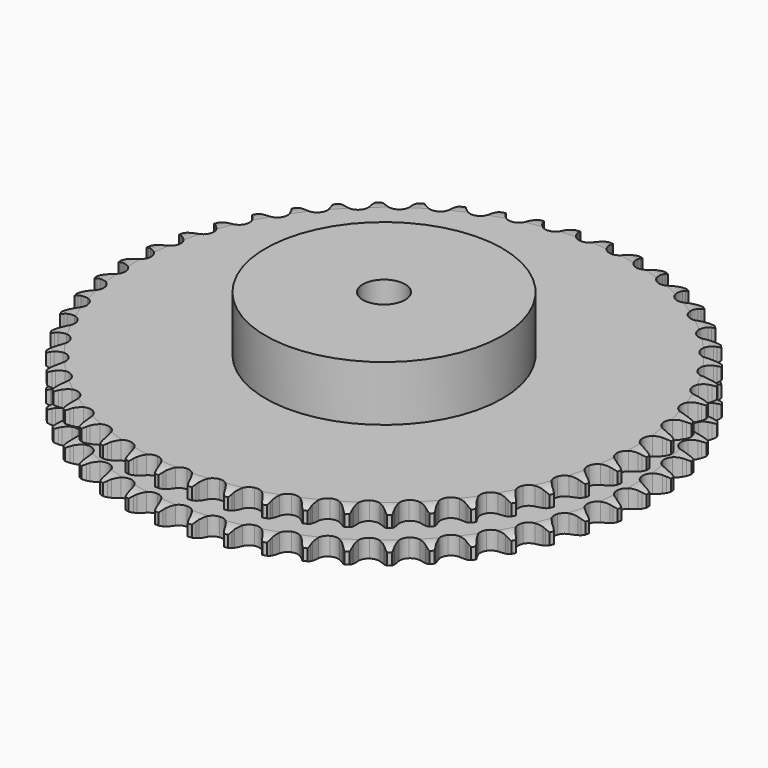
from build123d import *

# Parameters (mm, degrees)
PAD_DEPTH         = 30.3
SKETCH001_R       = 70
PAD001_DEPTH      = 63
SKETCH002_R       = 12.5
POCKET_DEPTH      = 0.001
POCKET_DEPTH_BACK = 63.001


with BuildPart() as part:
    # Sprocket → Pad (new body)
    with BuildSketch(Plane.XY):
        with BuildLine():
            ThreePointArc((-9.906473, 157.45888), (-8.588511, 155.781936), (-7.66687, 153.858464))
            Line((-7.66687, 153.858464), (-7.079791, 152.183904))
            ThreePointArc((-7.079791, 152.183904), (-6.153474, 150.057582), (-4.925101, 148.090246))
            ThreePointArc((-4.925101, 148.090246), (-2.761333, 146.251989), (0, 145.5916))
            ThreePointArc((0, 145.5916), (2.761333, 146.251989), (4.925101, 148.090246))
            ThreePointArc((4.925101, 148.090246), (6.153474, 150.057582), (7.079791, 152.183904))
            Line((7.079791, 152.183904), (7.66687, 153.858464))
            ThreePointArc((7.66687, 153.858464), (8.588511, 155.781936), (9.906473, 157.45888))
            ThreePointArc((9.906473, 157.45888), (11.003866, 155.629975), (11.677165, 153.606158))
            Line((11.677165, 153.606158), (12.049736, 151.871222))
            ThreePointArc((12.049736, 151.871222), (12.70225, 149.645568), (13.674365, 147.539789))
            ThreePointArc((13.674365, 147.539789), (15.590675, 145.444835), (18.247466, 144.443567))
            ThreePointArc((18.247466, 144.443567), (21.069794, 144.752662), (23.446894, 146.305231))
            Line((23.446894, 146.305231), (26.097665, 150.096556))
            ThreePointArc((26.097665, 150.096556), (26.471464, 150.901604), (26.889993, 151.684331))
            ThreePointArc((26.889993, 151.684331), (28.045441, 153.477123), (29.563188, 154.975659))
            ThreePointArc((29.563188, 154.975659), (30.422705, 153.023636), (30.837043, 150.931391))
            Line((30.837043, 150.931391), (30.989232, 149.16344))
            ThreePointArc((30.989232, 149.16344), (31.357652, 146.873554), (32.058177, 144.662541))
            ThreePointArc((32.058177, 144.662541), (33.69681, 142.34393), (36.207159, 141.017572))
            ThreePointArc((36.207159, 141.017572), (39.045972, 140.970498), (41.598916, 142.212896))
            Line((41.598916, 142.212896), (44.703964, 145.642095))
            ThreePointArc((44.703964, 145.642095), (45.175714, 146.393946), (45.689045, 147.118045))
            ThreePointArc((45.689045, 147.118045), (47.060079, 148.751884), (48.753674, 150.04838))
            ThreePointArc((48.753674, 150.04838), (49.36176, 148.004023), (49.510603, 145.876345))
            Line((49.510603, 145.876345), (49.440009, 144.103261))
            ThreePointArc((49.440009, 144.103261), (49.518525, 141.785256), (49.936413, 139.503879))
            ThreePointArc((49.936413, 139.503879), (51.271525, 136.998175), (53.595843, 135.367646))
            ThreePointArc((53.595843, 135.367646), (56.406371, 134.965146), (59.094898, 135.877778))
            Line((59.094898, 135.877778), (62.605255, 138.890771))
            ThreePointArc((62.605255, 138.890771), (63.167517, 139.577567), (63.767554, 140.231619))
            ThreePointArc((63.767554, 140.231619), (65.332551, 141.680739), (67.175285, 142.754748))
            ThreePointArc((67.175285, 142.754748), (67.522351, 140.650298), (67.403351, 138.520743))
            Line((67.403351, 138.520743), (67.111087, 136.770487))
            ThreePointArc((67.111087, 136.770487), (66.898461, 134.46092), (67.027121, 132.145157))
            ThreePointArc((67.027121, 132.145157), (68.037658, 129.491878), (70.139288, 127.582891))
            ThreePointArc((70.139288, 127.582891), (72.877208, 126.831313), (75.658919, 127.399786))
            Line((75.658919, 127.399786), (79.519223, 129.949057))
            ThreePointArc((79.519223, 129.949057), (80.16313, 130.559967), (80.84041, 131.133657))
            ThreePointArc((80.84041, 131.133657), (82.574689, 132.375205), (84.537502, 133.209788))
            ThreePointArc((84.537502, 133.209788), (84.618074, 131.078433), (84.233108, 128.980585))
            Line((84.233108, 128.980585), (83.723783, 127.280762))
            ThreePointArc((83.723783, 127.280762), (83.223369, 125.016055), (83.060772, 122.702427))
            ThreePointArc((83.060772, 122.702427), (83.730797, 119.943416), (85.576595, 117.786078))
            ThreePointArc((85.576595, 117.786078), (88.198728, 116.697274), (91.029753, 116.912624))
            Line((91.029753, 116.912624), (95.179126, 118.957968))
            ThreePointArc((95.179126, 118.957968), (95.894523, 119.483359), (96.638364, 119.967639))
            ThreePointArc((96.638364, 119.967639), (98.514576, 120.982034), (100.566512, 121.564031))
            ThreePointArc((100.566512, 121.564031), (100.379319, 119.439384), (99.734459, 117.406327))
            Line((99.734459, 117.406327), (99.016106, 115.783742))
            ThreePointArc((99.016106, 115.783742), (98.235794, 113.599612), (97.784505, 111.324607))
            ThreePointArc((97.784505, 111.324607), (98.103451, 108.503375), (99.664308, 106.131709))
            ThreePointArc((99.664308, 106.131709), (102.129301, 104.722849), (104.964993, 104.58168))
            Line((104.964993, 104.58168), (109.337997, 106.090842))
            ThreePointArc((109.337997, 106.090842), (110.113601, 106.522426), (110.912274, 106.90966))
            ThreePointArc((110.912274, 106.90966), (112.900828, 107.680904), (115.009528, 108.001136))
            ThreePointArc((115.009528, 108.001136), (114.557522, 105.916704), (113.662938, 103.980501))
            Line((113.662938, 103.980501), (112.746885, 102.460744))
            ThreePointArc((112.746885, 102.460744), (111.698982, 100.391636), (110.966118, 98.191131))
            ThreePointArc((110.966118, 98.191131), (110.928954, 95.35217), (112.180256, 92.803578))
            ThreePointArc((112.180256, 92.803578), (114.449235, 91.096883), (117.244873, 90.60142))
            Line((117.244873, 90.60142), (121.772542, 91.550599))
            ThreePointArc((121.772542, 91.550599), (122.596123, 91.881571), (123.437031, 92.165651))
            ThreePointArc((123.437031, 92.165651), (125.506567, 92.681582), (127.638776, 92.734999))
            ThreePointArc((127.638776, 92.734999), (126.929085, 90.723655), (125.798884, 88.91484))
            Line((125.798884, 88.91484), (124.699579, 87.521879))
            ThreePointArc((124.699579, 87.521879), (123.400611, 85.600423), (122.397729, 83.509122))
            ThreePointArc((122.397729, 83.509122), (122.005042, 80.697206), (122.927053, 78.01188))
            ThreePointArc((122.927053, 78.01188), (124.964235, 76.034264), (127.675731, 75.192322))
            Line((127.675731, 75.192322), (132.286662, 75.566549))
            ThreePointArc((132.286662, 75.566549), (133.14523, 75.791689), (134.015112, 75.968136))
            ThreePointArc((134.015112, 75.968136), (136.132993, 76.220616), (138.255083, 76.006375))
            ThreePointArc((138.255083, 76.006375), (137.2989, 74.099839), (135.950906, 72.446939))
            Line((135.950906, 72.446939), (134.685685, 71.202741))
            ThreePointArc((134.685685, 71.202741), (133.156138, 69.459241), (131.899055, 67.510124))
            ThreePointArc((131.899055, 67.510124), (131.157038, 64.769598), (131.735218, 61.989888))
            ThreePointArc((131.735218, 61.989888), (133.508475, 59.772539), (136.093067, 58.597396))
            Line((136.093067, 58.597396), (140.714542, 58.390769))
            ThreePointArc((140.714542, 58.390769), (141.594558, 58.506527), (142.479695, 58.572557))
            ThreePointArc((142.479695, 58.572557), (144.61252, 58.557606), (146.691025, 58.079085))
            ThreePointArc((146.691025, 58.079085), (145.50343, 56.307425), (143.958902, 54.836507))
            Line((143.958902, 54.836507), (142.547718, 53.760694))
            ThreePointArc((142.547718, 53.760694), (140.811713, 52.222644), (139.320254, 50.446452))
            ThreePointArc((139.320254, 50.446452), (138.240608, 47.820534), (138.46584, 44.990279))
            ThreePointArc((138.46584, 44.990279), (139.947206, 42.568166), (142.364133, 41.078354))
            Line((142.364133, 41.078354), (146.92327, 40.294131))
            ThreePointArc((146.92327, 40.294131), (147.810855, 40.298682), (148.697288, 40.253254))
            ThreePointArc((148.697288, 40.253254), (150.811421, 39.971107), (152.813562, 39.235854))
            ThreePointArc((152.813562, 39.235854), (151.413283, 37.627008), (149.69658, 36.36127))
            Line((149.69658, 36.36127), (148.161689, 35.470808))
            ThreePointArc((148.161689, 35.470808), (146.246603, 34.162466), (144.544289, 32.587209))
            ThreePointArc((144.544289, 32.587209), (143.144042, 30.117313), (143.012772, 27.281145))
            ThreePointArc((143.012772, 27.281145), (144.178887, 24.692467), (146.390032, 22.911481))
            Line((146.390032, 22.911481), (150.81493, 21.562032))
            ThreePointArc((150.81493, 21.562032), (151.696086, 21.455302), (152.569836, 21.299133))
            ThreePointArc((152.569836, 21.299133), (154.631936, 20.75424), (156.526138, 19.77385))
            ThreePointArc((156.526138, 19.77385), (154.935259, 18.353192), (153.073453, 17.312594))
            Line((153.073453, 17.312594), (151.43906, 16.621527))
            ThreePointArc((151.43906, 16.621527), (149.375098, 15.563525), (147.488774, 14.214046))
            ThreePointArc((147.488774, 14.214046), (145.790009, 11.939123), (145.304308, 9.141772))
            ThreePointArc((145.304308, 9.141772), (146.13678, 6.427354), (148.107273, 4.383281))
            Line((148.107273, 4.383281), (152.328148, 2.489886))
            ThreePointArc((152.328148, 2.489886), (153.188979, 2.27356), (154.036266, 2.009112))
            ThreePointArc((154.036266, 2.009112), (156.013813, 1.210066), (157.770203, 0))
            ThreePointArc((157.770203, 0), (156.013813, -1.210066), (154.036266, -2.009112))
            Line((154.036266, -2.009112), (152.328148, -2.489886))
            ThreePointArc((152.328148, -2.489886), (150.147857, -3.280862), (148.107273, -4.383281))
            ThreePointArc((148.107273, -4.383281), (146.13678, -6.427354), (145.304308, -9.141772))
            ThreePointArc((145.304308, -9.141772), (145.790009, -11.939123), (147.488774, -14.214046))
            Line((147.488774, -14.214046), (151.43906, -16.621527))
            ThreePointArc((151.43906, -16.621527), (152.265991, -16.944038), (153.073453, -17.312594))
            ThreePointArc((153.073453, -17.312594), (154.935259, -18.353192), (156.526138, -19.77385))
            ThreePointArc((156.526138, -19.77385), (154.631936, -20.75424), (152.569836, -21.299133))
            Line((152.569836, -21.299133), (150.81493, -21.562032))
            ThreePointArc((150.81493, -21.562032), (148.552696, -22.073508), (146.390032, -22.911481))
            ThreePointArc((146.390032, -22.911481), (144.178887, -24.692467), (143.012772, -27.281145))
            ThreePointArc((143.012772, -27.281145), (143.144042, -30.117313), (144.544289, -32.587209))
            Line((144.544289, -32.587209), (148.161689, -35.470808))
            ThreePointArc((148.161689, -35.470808), (148.941677, -35.894418), (149.69658, -36.36127))
            ThreePointArc((149.69658, -36.36127), (151.413283, -37.627008), (152.813562, -39.235854))
            ThreePointArc((152.813562, -39.235854), (150.811421, -39.971107), (148.697288, -40.253254))
            Line((148.697288, -40.253254), (146.92327, -40.294131))
            ThreePointArc((146.92327, -40.294131), (144.614769, -40.518041), (142.364133, -41.078354))
            ThreePointArc((142.364133, -41.078354), (139.947206, -42.568166), (138.46584, -44.990279))
            ThreePointArc((138.46584, -44.990279), (138.240608, -47.820534), (139.320254, -50.446452))
            Line((139.320254, -50.446452), (142.547718, -53.760694))
            ThreePointArc((142.547718, -53.760694), (143.268464, -54.278722), (143.958902, -54.836507))
            ThreePointArc((143.958902, -54.836507), (145.50343, -56.307425), (146.691025, -58.079085))
            ThreePointArc((146.691025, -58.079085), (144.61252, -58.557606), (142.479695, -58.572557))
            Line((142.479695, -58.572557), (140.714542, -58.390769))
            ThreePointArc((140.714542, -58.390769), (138.396181, -58.323581), (136.093067, -58.597396))
            ThreePointArc((136.093067, -58.597396), (133.508475, -59.772539), (131.735218, -61.989888))
            ThreePointArc((131.735218, -61.989888), (131.157038, -64.769598), (131.899055, -67.510124))
            Line((131.899055, -67.510124), (134.685685, -71.202741))
            ThreePointArc((134.685685, -71.202741), (135.335822, -71.807018), (135.950906, -72.446939))
            ThreePointArc((135.950906, -72.446939), (137.2989, -74.099839), (138.255083, -76.006375))
            ThreePointArc((138.255083, -76.006375), (136.132993, -76.220616), (134.015112, -75.968136))
            Line((134.015112, -75.968136), (132.286662, -75.566549))
            ThreePointArc((132.286662, -75.566549), (129.995003, -75.209323), (127.675731, -75.192322))
            ThreePointArc((127.675731, -75.192322), (124.964235, -76.034264), (122.927053, -78.01188))
            ThreePointArc((122.927053, -78.01188), (122.005042, -80.697206), (122.397729, -83.509122))
            Line((122.397729, -83.509122), (124.699579, -87.521879))
            ThreePointArc((124.699579, -87.521879), (125.268853, -88.202874), (125.798884, -88.91484))
            ThreePointArc((125.798884, -88.91484), (126.929085, -90.723655), (127.638776, -92.734999))
            ThreePointArc((127.638776, -92.734999), (125.506567, -92.681582), (123.437031, -92.165651))
            Line((123.437031, -92.165651), (121.772542, -91.550599))
            ThreePointArc((121.772542, -91.550599), (119.543726, -90.908969), (117.244873, -90.60142))
            ThreePointArc((117.244873, -90.60142), (114.449235, -91.096883), (112.180256, -92.803578))
            ThreePointArc((112.180256, -92.803578), (110.928954, -95.35217), (110.966118, -98.191131))
            Line((110.966118, -98.191131), (112.746885, -102.460744))
            ThreePointArc((112.746885, -102.460744), (113.226319, -103.207719), (113.662938, -103.980501))
            ThreePointArc((113.662938, -103.980501), (114.557522, -105.916704), (115.009528, -108.001136))
            ThreePointArc((115.009528, -108.001136), (112.900828, -107.680904), (110.912274, -106.90966))
            Line((110.912274, -106.90966), (109.337997, -106.090842))
            ThreePointArc((109.337997, -106.090842), (107.207173, -105.174927), (104.964993, -104.58168))
            ThreePointArc((104.964993, -104.58168), (102.129301, -104.722849), (99.664308, -106.131709))
            ThreePointArc((99.664308, -106.131709), (98.103451, -108.503375), (97.784505, -111.324607))
            Line((97.784505, -111.324607), (99.016106, -115.783742))
            ThreePointArc((99.016106, -115.783742), (99.398138, -116.584916), (99.734459, -117.406327))
            ThreePointArc((99.734459, -117.406327), (100.379319, -119.439384), (100.566512, -121.564031))
            ThreePointArc((100.566512, -121.564031), (98.514576, -120.982034), (96.638364, -119.967639))
            Line((96.638364, -119.967639), (95.179126, -118.957968))
            ThreePointArc((95.179126, -118.957968), (93.179899, -117.782213), (91.029753, -116.912624))
            ThreePointArc((91.029753, -116.912624), (88.198728, -116.697274), (85.576595, -117.786078))
            ThreePointArc((85.576595, -117.786078), (83.730797, -119.943416), (83.060772, -122.702427))
            Line((83.060772, -122.702427), (83.723783, -127.280762))
            ThreePointArc((83.723783, -127.280762), (84.00239, -128.123499), (84.233108, -128.980585))
            ThreePointArc((84.233108, -128.980585), (84.618074, -131.078433), (84.537502, -133.209788))
            ThreePointArc((84.537502, -133.209788), (82.574689, -132.375205), (80.84041, -131.133657))
            Line((80.84041, -131.133657), (79.519223, -129.949057))
            ThreePointArc((79.519223, -129.949057), (77.683122, -128.532003), (75.658919, -127.399786))
            ThreePointArc((75.658919, -127.399786), (72.877208, -126.831313), (70.139288, -127.582891))
            ThreePointArc((70.139288, -127.582891), (68.037658, -129.491878), (67.027121, -132.145157))
            Line((67.027121, -132.145157), (67.111087, -136.770487))
            ThreePointArc((67.111087, -136.770487), (67.281873, -137.641498), (67.403351, -138.520743))
            ThreePointArc((67.403351, -138.520743), (67.522351, -140.650298), (67.175285, -142.754748))
            ThreePointArc((67.175285, -142.754748), (65.332551, -141.680739), (63.767554, -140.231619))
            Line((63.767554, -140.231619), (62.605255, -138.890771))
            ThreePointArc((62.605255, -138.890771), (60.961236, -137.254766), (59.094898, -135.877778))
            ThreePointArc((59.094898, -135.877778), (56.406371, -134.965146), (53.595843, -135.367646))
            ThreePointArc((53.595843, -135.367646), (51.271525, -136.998175), (49.936413, -139.503879))
            Line((49.936413, -139.503879), (49.440009, -144.103261))
            ThreePointArc((49.440009, -144.103261), (49.500282, -144.988809), (49.510603, -145.876345))
            ThreePointArc((49.510603, -145.876345), (49.36176, -148.004023), (48.753674, -150.04838))
            ThreePointArc((48.753674, -150.04838), (47.060079, -148.751884), (45.689045, -147.118045))
            Line((45.689045, -147.118045), (44.703964, -145.642095))
            ThreePointArc((44.703964, -145.642095), (43.277954, -143.81294), (41.598916, -142.212896))
            ThreePointArc((41.598916, -142.212896), (39.045972, -140.970498), (36.207159, -141.017572))
            ThreePointArc((36.207159, -141.017572), (33.69681, -142.34393), (32.058177, -144.662541))
            Line((32.058177, -144.662541), (30.989232, -149.16344))
            ThreePointArc((30.989232, -149.16344), (30.938041, -150.049559), (30.837043, -150.931391))
            ThreePointArc((30.837043, -150.931391), (30.422705, -153.023636), (29.563188, -154.975659))
            ThreePointArc((29.563188, -154.975659), (28.045441, -153.477123), (26.889993, -151.684331))
            Line((26.889993, -151.684331), (26.097665, -150.096556))
            ThreePointArc((26.097665, -150.096556), (24.912154, -148.103098), (23.446894, -146.305231))
            ThreePointArc((23.446894, -146.305231), (21.069794, -144.752662), (18.247466, -144.443567))
            ThreePointArc((18.247466, -144.443567), (15.590675, -145.444835), (13.674365, -147.539789))
            Line((13.674365, -147.539789), (12.049736, -151.871222))
            ThreePointArc((12.049736, -151.871222), (11.887889, -152.743938), (11.677165, -153.606158))
            ThreePointArc((11.677165, -153.606158), (11.003866, -155.629975), (9.906473, -157.45888))
            ThreePointArc((9.906473, -157.45888), (8.588511, -155.781936), (7.66687, -153.858464))
            Line((7.66687, -153.858464), (7.079791, -152.183904))
            ThreePointArc((7.079791, -152.183904), (6.153474, -150.057582), (4.925101, -148.090246))
            ThreePointArc((4.925101, -148.090246), (2.761333, -146.251989), (0, -145.5916))
            ThreePointArc((0, -145.5916), (-2.761333, -146.251989), (-4.925101, -148.090246))
            Line((-4.925101, -148.090246), (-7.079791, -152.183904))
            ThreePointArc((-7.079791, -152.183904), (-7.349742, -153.029454), (-7.66687, -153.858464))
            ThreePointArc((-7.66687, -153.858464), (-8.588511, -155.781936), (-9.906473, -157.45888))
            ThreePointArc((-9.906473, -157.45888), (-11.003866, -155.629975), (-11.677165, -153.606158))
            Line((-11.677165, -153.606158), (-12.049736, -151.871222))
            ThreePointArc((-12.049736, -151.871222), (-12.70225, -149.645568), (-13.674365, -147.539789))
            ThreePointArc((-13.674365, -147.539789), (-15.590675, -145.444835), (-18.247466, -144.443567))
            ThreePointArc((-18.247466, -144.443567), (-21.069794, -144.752662), (-23.446894, -146.305231))
            Line((-23.446894, -146.305231), (-26.097665, -150.096556))
            ThreePointArc((-26.097665, -150.096556), (-26.471464, -150.901604), (-26.889993, -151.684331))
            ThreePointArc((-26.889993, -151.684331), (-28.045441, -153.477123), (-29.563188, -154.975659))
            ThreePointArc((-29.563188, -154.975659), (-30.422705, -153.023636), (-30.837043, -150.931391))
            Line((-30.837043, -150.931391), (-30.989232, -149.16344))
            ThreePointArc((-30.989232, -149.16344), (-31.357652, -146.873554), (-32.058177, -144.662541))
            ThreePointArc((-32.058177, -144.662541), (-33.69681, -142.34393), (-36.207159, -141.017572))
            ThreePointArc((-36.207159, -141.017572), (-39.045972, -140.970498), (-41.598916, -142.212896))
            Line((-41.598916, -142.212896), (-44.703964, -145.642095))
            ThreePointArc((-44.703964, -145.642095), (-45.175714, -146.393946), (-45.689045, -147.118045))
            ThreePointArc((-45.689045, -147.118045), (-47.060079, -148.751884), (-48.753674, -150.04838))
            ThreePointArc((-48.753674, -150.04838), (-49.36176, -148.004023), (-49.510603, -145.876345))
            Line((-49.510603, -145.876345), (-49.440009, -144.103261))
            ThreePointArc((-49.440009, -144.103261), (-49.518525, -141.785256), (-49.936413, -139.503879))
            ThreePointArc((-49.936413, -139.503879), (-51.271525, -136.998175), (-53.595843, -135.367646))
            ThreePointArc((-53.595843, -135.367646), (-56.406371, -134.965146), (-59.094898, -135.877778))
            Line((-59.094898, -135.877778), (-62.605255, -138.890771))
            ThreePointArc((-62.605255, -138.890771), (-63.167517, -139.577567), (-63.767554, -140.231619))
            ThreePointArc((-63.767554, -140.231619), (-65.332551, -141.680739), (-67.175285, -142.754748))
            ThreePointArc((-67.175285, -142.754748), (-67.522351, -140.650298), (-67.403351, -138.520743))
            Line((-67.403351, -138.520743), (-67.111087, -136.770487))
            ThreePointArc((-67.111087, -136.770487), (-66.898461, -134.46092), (-67.027121, -132.145157))
            ThreePointArc((-67.027121, -132.145157), (-68.037658, -129.491878), (-70.139288, -127.582891))
            ThreePointArc((-70.139288, -127.582891), (-72.877208, -126.831313), (-75.658919, -127.399786))
            Line((-75.658919, -127.399786), (-79.519223, -129.949057))
            ThreePointArc((-79.519223, -129.949057), (-80.16313, -130.559967), (-80.84041, -131.133657))
            ThreePointArc((-80.84041, -131.133657), (-82.574689, -132.375205), (-84.537502, -133.209788))
            ThreePointArc((-84.537502, -133.209788), (-84.618074, -131.078433), (-84.233108, -128.980585))
            Line((-84.233108, -128.980585), (-83.723783, -127.280762))
            ThreePointArc((-83.723783, -127.280762), (-83.223369, -125.016055), (-83.060772, -122.702427))
            ThreePointArc((-83.060772, -122.702427), (-83.730797, -119.943416), (-85.576595, -117.786078))
            ThreePointArc((-85.576595, -117.786078), (-88.198728, -116.697274), (-91.029753, -116.912624))
            Line((-91.029753, -116.912624), (-95.179126, -118.957968))
            ThreePointArc((-95.179126, -118.957968), (-95.894523, -119.483359), (-96.638364, -119.967639))
            ThreePointArc((-96.638364, -119.967639), (-98.514576, -120.982034), (-100.566512, -121.564031))
            ThreePointArc((-100.566512, -121.564031), (-100.379319, -119.439384), (-99.734459, -117.406327))
            Line((-99.734459, -117.406327), (-99.016106, -115.783742))
            ThreePointArc((-99.016106, -115.783742), (-98.235794, -113.599612), (-97.784505, -111.324607))
            ThreePointArc((-97.784505, -111.324607), (-98.103451, -108.503375), (-99.664308, -106.131709))
            ThreePointArc((-99.664308, -106.131709), (-102.129301, -104.722849), (-104.964993, -104.58168))
            Line((-104.964993, -104.58168), (-109.337997, -106.090842))
            ThreePointArc((-109.337997, -106.090842), (-110.113601, -106.522426), (-110.912274, -106.90966))
            ThreePointArc((-110.912274, -106.90966), (-112.900828, -107.680904), (-115.009528, -108.001136))
            ThreePointArc((-115.009528, -108.001136), (-114.557522, -105.916704), (-113.662938, -103.980501))
            Line((-113.662938, -103.980501), (-112.746885, -102.460744))
            ThreePointArc((-112.746885, -102.460744), (-111.698982, -100.391636), (-110.966118, -98.191131))
            ThreePointArc((-110.966118, -98.191131), (-110.928954, -95.35217), (-112.180256, -92.803578))
            ThreePointArc((-112.180256, -92.803578), (-114.449235, -91.096883), (-117.244873, -90.60142))
            Line((-117.244873, -90.60142), (-121.772542, -91.550599))
            ThreePointArc((-121.772542, -91.550599), (-122.596123, -91.881571), (-123.437031, -92.165651))
            ThreePointArc((-123.437031, -92.165651), (-125.506567, -92.681582), (-127.638776, -92.734999))
            ThreePointArc((-127.638776, -92.734999), (-126.929085, -90.723655), (-125.798884, -88.91484))
            Line((-125.798884, -88.91484), (-124.699579, -87.521879))
            ThreePointArc((-124.699579, -87.521879), (-123.400611, -85.600423), (-122.397729, -83.509122))
            ThreePointArc((-122.397729, -83.509122), (-122.005042, -80.697206), (-122.927053, -78.01188))
            ThreePointArc((-122.927053, -78.01188), (-124.964235, -76.034264), (-127.675731, -75.192322))
            Line((-127.675731, -75.192322), (-132.286662, -75.566549))
            ThreePointArc((-132.286662, -75.566549), (-133.14523, -75.791689), (-134.015112, -75.968136))
            ThreePointArc((-134.015112, -75.968136), (-136.132993, -76.220616), (-138.255083, -76.006375))
            ThreePointArc((-138.255083, -76.006375), (-137.2989, -74.099839), (-135.950906, -72.446939))
            Line((-135.950906, -72.446939), (-134.685685, -71.202741))
            ThreePointArc((-134.685685, -71.202741), (-133.156138, -69.459241), (-131.899055, -67.510124))
            ThreePointArc((-131.899055, -67.510124), (-131.157038, -64.769598), (-131.735218, -61.989888))
            ThreePointArc((-131.735218, -61.989888), (-133.508475, -59.772539), (-136.093067, -58.597396))
            Line((-136.093067, -58.597396), (-140.714542, -58.390769))
            ThreePointArc((-140.714542, -58.390769), (-141.594558, -58.506527), (-142.479695, -58.572557))
            ThreePointArc((-142.479695, -58.572557), (-144.61252, -58.557606), (-146.691025, -58.079085))
            ThreePointArc((-146.691025, -58.079085), (-145.50343, -56.307425), (-143.958902, -54.836507))
            Line((-143.958902, -54.836507), (-142.547718, -53.760694))
            ThreePointArc((-142.547718, -53.760694), (-140.811713, -52.222644), (-139.320254, -50.446452))
            ThreePointArc((-139.320254, -50.446452), (-138.240608, -47.820534), (-138.46584, -44.990279))
            ThreePointArc((-138.46584, -44.990279), (-139.947206, -42.568166), (-142.364133, -41.078354))
            Line((-142.364133, -41.078354), (-146.92327, -40.294131))
            ThreePointArc((-146.92327, -40.294131), (-147.810855, -40.298682), (-148.697288, -40.253254))
            ThreePointArc((-148.697288, -40.253254), (-150.811421, -39.971107), (-152.813562, -39.235854))
            ThreePointArc((-152.813562, -39.235854), (-151.413283, -37.627008), (-149.69658, -36.36127))
            Line((-149.69658, -36.36127), (-148.161689, -35.470808))
            ThreePointArc((-148.161689, -35.470808), (-146.246603, -34.162466), (-144.544289, -32.587209))
            ThreePointArc((-144.544289, -32.587209), (-143.144042, -30.117313), (-143.012772, -27.281145))
            ThreePointArc((-143.012772, -27.281145), (-144.178887, -24.692467), (-146.390032, -22.911481))
            Line((-146.390032, -22.911481), (-150.81493, -21.562032))
            ThreePointArc((-150.81493, -21.562032), (-151.696086, -21.455302), (-152.569836, -21.299133))
            ThreePointArc((-152.569836, -21.299133), (-154.631936, -20.75424), (-156.526138, -19.77385))
            ThreePointArc((-156.526138, -19.77385), (-154.935259, -18.353192), (-153.073453, -17.312594))
            Line((-153.073453, -17.312594), (-151.43906, -16.621527))
            ThreePointArc((-151.43906, -16.621527), (-149.375098, -15.563525), (-147.488774, -14.214046))
            ThreePointArc((-147.488774, -14.214046), (-145.790009, -11.939123), (-145.304308, -9.141772))
            ThreePointArc((-145.304308, -9.141772), (-146.13678, -6.427354), (-148.107273, -4.383281))
            Line((-148.107273, -4.383281), (-152.328148, -2.489886))
            ThreePointArc((-152.328148, -2.489886), (-153.188979, -2.27356), (-154.036266, -2.009112))
            ThreePointArc((-154.036266, -2.009112), (-156.013813, -1.210066), (-157.770203, 0))
            ThreePointArc((-157.770203, 0), (-156.013813, 1.210066), (-154.036266, 2.009112))
            Line((-154.036266, 2.009112), (-152.328148, 2.489886))
            ThreePointArc((-152.328148, 2.489886), (-150.147857, 3.280862), (-148.107273, 4.383281))
            ThreePointArc((-148.107273, 4.383281), (-146.13678, 6.427354), (-145.304308, 9.141772))
            ThreePointArc((-145.304308, 9.141772), (-145.790009, 11.939123), (-147.488774, 14.214046))
            Line((-147.488774, 14.214046), (-151.43906, 16.621527))
            ThreePointArc((-151.43906, 16.621527), (-152.265991, 16.944038), (-153.073453, 17.312594))
            ThreePointArc((-153.073453, 17.312594), (-154.935259, 18.353192), (-156.526138, 19.77385))
            ThreePointArc((-156.526138, 19.77385), (-154.631936, 20.75424), (-152.569836, 21.299133))
            Line((-152.569836, 21.299133), (-150.81493, 21.562032))
            ThreePointArc((-150.81493, 21.562032), (-148.552696, 22.073508), (-146.390032, 22.911481))
            ThreePointArc((-146.390032, 22.911481), (-144.178887, 24.692467), (-143.012772, 27.281145))
            ThreePointArc((-143.012772, 27.281145), (-143.144042, 30.117313), (-144.544289, 32.587209))
            Line((-144.544289, 32.587209), (-148.161689, 35.470808))
            ThreePointArc((-148.161689, 35.470808), (-148.941677, 35.894418), (-149.69658, 36.36127))
            ThreePointArc((-149.69658, 36.36127), (-151.413283, 37.627008), (-152.813562, 39.235854))
            ThreePointArc((-152.813562, 39.235854), (-150.811421, 39.971107), (-148.697288, 40.253254))
            Line((-148.697288, 40.253254), (-146.92327, 40.294131))
            ThreePointArc((-146.92327, 40.294131), (-144.614769, 40.518041), (-142.364133, 41.078354))
            ThreePointArc((-142.364133, 41.078354), (-139.947206, 42.568166), (-138.46584, 44.990279))
            ThreePointArc((-138.46584, 44.990279), (-138.240608, 47.820534), (-139.320254, 50.446452))
            Line((-139.320254, 50.446452), (-142.547718, 53.760694))
            ThreePointArc((-142.547718, 53.760694), (-143.268464, 54.278722), (-143.958902, 54.836507))
            ThreePointArc((-143.958902, 54.836507), (-145.50343, 56.307425), (-146.691025, 58.079085))
            ThreePointArc((-146.691025, 58.079085), (-144.61252, 58.557606), (-142.479695, 58.572557))
            Line((-142.479695, 58.572557), (-140.714542, 58.390769))
            ThreePointArc((-140.714542, 58.390769), (-138.396181, 58.323581), (-136.093067, 58.597396))
            ThreePointArc((-136.093067, 58.597396), (-133.508475, 59.772539), (-131.735218, 61.989888))
            ThreePointArc((-131.735218, 61.989888), (-131.157038, 64.769598), (-131.899055, 67.510124))
            Line((-131.899055, 67.510124), (-134.685685, 71.202741))
            ThreePointArc((-134.685685, 71.202741), (-135.335822, 71.807018), (-135.950906, 72.446939))
            ThreePointArc((-135.950906, 72.446939), (-137.2989, 74.099839), (-138.255083, 76.006375))
            ThreePointArc((-138.255083, 76.006375), (-136.132993, 76.220616), (-134.015112, 75.968136))
            Line((-134.015112, 75.968136), (-132.286662, 75.566549))
            ThreePointArc((-132.286662, 75.566549), (-129.995003, 75.209323), (-127.675731, 75.192322))
            ThreePointArc((-127.675731, 75.192322), (-124.964235, 76.034264), (-122.927053, 78.01188))
            ThreePointArc((-122.927053, 78.01188), (-122.005042, 80.697206), (-122.397729, 83.509122))
            Line((-122.397729, 83.509122), (-124.699579, 87.521879))
            ThreePointArc((-124.699579, 87.521879), (-125.268853, 88.202874), (-125.798884, 88.91484))
            ThreePointArc((-125.798884, 88.91484), (-126.929085, 90.723655), (-127.638776, 92.734999))
            ThreePointArc((-127.638776, 92.734999), (-125.506567, 92.681582), (-123.437031, 92.165651))
            Line((-123.437031, 92.165651), (-121.772542, 91.550599))
            ThreePointArc((-121.772542, 91.550599), (-119.543726, 90.908969), (-117.244873, 90.60142))
            ThreePointArc((-117.244873, 90.60142), (-114.449235, 91.096883), (-112.180256, 92.803578))
            ThreePointArc((-112.180256, 92.803578), (-110.928954, 95.35217), (-110.966118, 98.191131))
            Line((-110.966118, 98.191131), (-112.746885, 102.460744))
            ThreePointArc((-112.746885, 102.460744), (-113.226319, 103.207719), (-113.662938, 103.980501))
            ThreePointArc((-113.662938, 103.980501), (-114.557522, 105.916704), (-115.009528, 108.001136))
            ThreePointArc((-115.009528, 108.001136), (-112.900828, 107.680904), (-110.912274, 106.90966))
            Line((-110.912274, 106.90966), (-109.337997, 106.090842))
            ThreePointArc((-109.337997, 106.090842), (-107.207173, 105.174927), (-104.964993, 104.58168))
            ThreePointArc((-104.964993, 104.58168), (-102.129301, 104.722849), (-99.664308, 106.131709))
            ThreePointArc((-99.664308, 106.131709), (-98.103451, 108.503375), (-97.784505, 111.324607))
            Line((-97.784505, 111.324607), (-99.016106, 115.783742))
            ThreePointArc((-99.016106, 115.783742), (-99.398138, 116.584916), (-99.734459, 117.406327))
            ThreePointArc((-99.734459, 117.406327), (-100.379319, 119.439384), (-100.566512, 121.564031))
            ThreePointArc((-100.566512, 121.564031), (-98.514576, 120.982034), (-96.638364, 119.967639))
            Line((-96.638364, 119.967639), (-95.179126, 118.957968))
            ThreePointArc((-95.179126, 118.957968), (-93.179899, 117.782213), (-91.029753, 116.912624))
            ThreePointArc((-91.029753, 116.912624), (-88.198728, 116.697274), (-85.576595, 117.786078))
            ThreePointArc((-85.576595, 117.786078), (-83.730797, 119.943416), (-83.060772, 122.702427))
            Line((-83.060772, 122.702427), (-83.723783, 127.280762))
            ThreePointArc((-83.723783, 127.280762), (-84.00239, 128.123499), (-84.233108, 128.980585))
            ThreePointArc((-84.233108, 128.980585), (-84.618074, 131.078433), (-84.537502, 133.209788))
            ThreePointArc((-84.537502, 133.209788), (-82.574689, 132.375205), (-80.84041, 131.133657))
            Line((-80.84041, 131.133657), (-79.519223, 129.949057))
            ThreePointArc((-79.519223, 129.949057), (-77.683122, 128.532003), (-75.658919, 127.399786))
            ThreePointArc((-75.658919, 127.399786), (-72.877208, 126.831313), (-70.139288, 127.582891))
            ThreePointArc((-70.139288, 127.582891), (-68.037658, 129.491878), (-67.027121, 132.145157))
            Line((-67.027121, 132.145157), (-67.111087, 136.770487))
            ThreePointArc((-67.111087, 136.770487), (-67.281873, 137.641498), (-67.403351, 138.520743))
            ThreePointArc((-67.403351, 138.520743), (-67.522351, 140.650298), (-67.175285, 142.754748))
            ThreePointArc((-67.175285, 142.754748), (-65.332551, 141.680739), (-63.767554, 140.231619))
            Line((-63.767554, 140.231619), (-62.605255, 138.890771))
            ThreePointArc((-62.605255, 138.890771), (-60.961236, 137.254766), (-59.094898, 135.877778))
            ThreePointArc((-59.094898, 135.877778), (-56.406371, 134.965146), (-53.595843, 135.367646))
            ThreePointArc((-53.595843, 135.367646), (-51.271525, 136.998175), (-49.936413, 139.503879))
            Line((-49.936413, 139.503879), (-49.440009, 144.103261))
            ThreePointArc((-49.440009, 144.103261), (-49.500282, 144.988809), (-49.510603, 145.876345))
            ThreePointArc((-49.510603, 145.876345), (-49.36176, 148.004023), (-48.753674, 150.04838))
            ThreePointArc((-48.753674, 150.04838), (-47.060079, 148.751884), (-45.689045, 147.118045))
            Line((-45.689045, 147.118045), (-44.703964, 145.642095))
            ThreePointArc((-44.703964, 145.642095), (-43.277954, 143.81294), (-41.598916, 142.212896))
            ThreePointArc((-41.598916, 142.212896), (-39.045972, 140.970498), (-36.207159, 141.017572))
            ThreePointArc((-36.207159, 141.017572), (-33.69681, 142.34393), (-32.058177, 144.662541))
            Line((-32.058177, 144.662541), (-30.989232, 149.16344))
            ThreePointArc((-30.989232, 149.16344), (-30.938041, 150.049559), (-30.837043, 150.931391))
            ThreePointArc((-30.837043, 150.931391), (-30.422705, 153.023636), (-29.563188, 154.975659))
            ThreePointArc((-29.563188, 154.975659), (-28.045441, 153.477123), (-26.889993, 151.684331))
            Line((-26.889993, 151.684331), (-26.097665, 150.096556))
            ThreePointArc((-26.097665, 150.096556), (-24.912154, 148.103098), (-23.446894, 146.305231))
            ThreePointArc((-23.446894, 146.305231), (-21.069794, 144.752662), (-18.247466, 144.443567))
            ThreePointArc((-18.247466, 144.443567), (-15.590675, 145.444835), (-13.674365, 147.539789))
            Line((-13.674365, 147.539789), (-12.049736, 151.871222))
            ThreePointArc((-12.049736, 151.871222), (-11.887889, 152.743938), (-11.677165, 153.606158))
            ThreePointArc((-11.677165, 153.606158), (-11.003866, 155.629975), (-9.906473, 157.45888))
        make_face()
    extrude(amount=PAD_DEPTH)

    # Sketch → Groove (revolve, cut)
    with BuildSketch(Plane.XZ):
        with BuildLine():
            ThreePointArc((147.664719, 0), (152.023618, 0.506758), (156.15, 2))
            Line((156.15, 2), (156.15, 8.8))
            ThreePointArc((156.15, 8.8), (152.023618, 10.293242), (147.664719, 10.8))
            Line((70, 10.8), (147.664719, 10.8))
            Line((70, 19.5), (70, 10.8))
            Line((147.664719, 19.5), (70, 19.5))
            ThreePointArc((147.664719, 19.5), (152.023618, 20.006758), (156.15, 21.5))
            Line((156.15, 21.5), (156.15, 28.3))
            ThreePointArc((156.15, 28.3), (152.023618, 29.793242), (147.664719, 30.3))
            Line((147.664719, 30.3), (166.15, 30.3))
            Line((166.15, 30.3), (166.15, 0))
            Line((147.664719, 0), (166.15, 0))
        make_face()
    revolve(axis=Axis((0, 0, 0), (0, 0, 1)), mode=Mode.SUBTRACT)

    # Sketch001 → Pad001 (join)
    with BuildSketch(Plane.XY):
        Circle(SKETCH001_R)
    extrude(amount=PAD001_DEPTH)

    # Sketch002 → Pocket (cut, two sides)
    with BuildSketch(Plane.XY) as pocket_sk:
        Circle(SKETCH002_R)
    extrude(amount=-POCKET_DEPTH, mode=Mode.SUBTRACT)
    extrude(pocket_sk.sketch, amount=POCKET_DEPTH_BACK, mode=Mode.SUBTRACT)


solid = part.part
